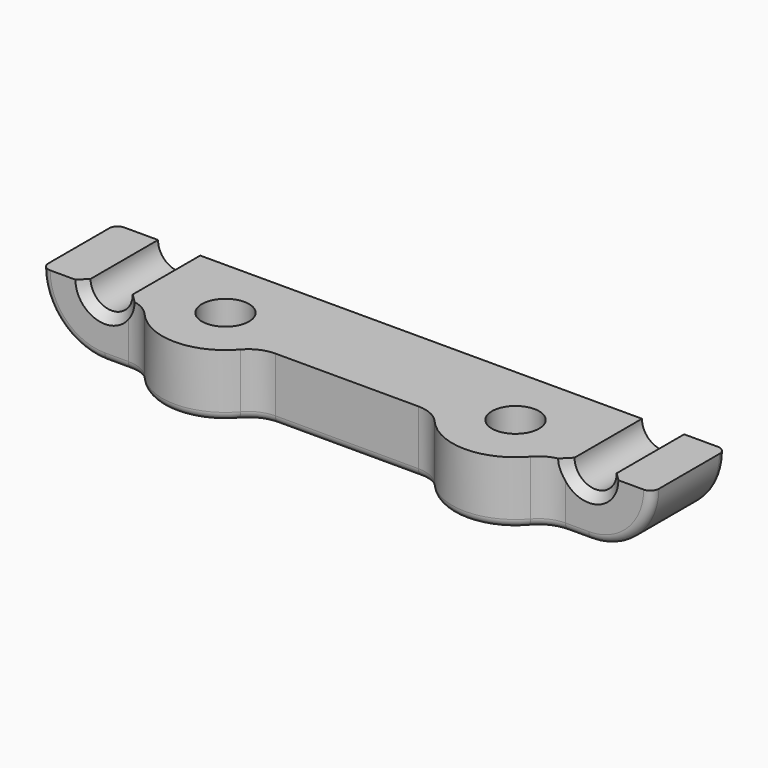
from build123d import *

# Parameters (mm, degrees)
F1_DEPTH = 13.97
F2_R     = 9.525
F3_DEPTH = 9.525
F4_R     = 3.556
F5_DEPTH = 9.526
F6_SIZE  = 1.27
F7_R     = 5.08
F8_R     = 1.27


with BuildPart() as f1:
    # F0 (on Front) → F1 (new body)
    with BuildSketch(Plane.XZ):
        with BuildLine():
            ThreePointArc((3.175, 0), (0, -3.175), (-3.175, 0))
            Line((-3.175, 0), (-9.525, 0))
            ThreePointArc((-9.525, 0), (-6.7351920908, -6.7351920908), (0, -9.525))
            ThreePointArc((0, -9.525), (6.7351920908, -6.7351920908), (9.525, 0))
            Line((9.525, 0), (3.175, 0))
        make_face()
        with BuildLine():
            Line((63.373, 0), (9.525, 0))
            ThreePointArc((9.525, 0), (6.7351920908, -6.7351920908), (0, -9.525))
            Line((0, -9.525), (72.898, -9.525))
            ThreePointArc((72.898, -9.525), (66.1628079092, -6.7351920908), (63.373, 0))
        make_face()
        with BuildLine():
            Line((69.723, 0), (63.373, 0))
            ThreePointArc((63.373, 0), (66.1628079092, -6.7351920908), (72.898, -9.525))
            ThreePointArc((72.898, -9.525), (79.6331920908, -6.7351920908), (82.423, 0))
            Line((82.423, 0), (76.073, 0))
            ThreePointArc((76.073, 0), (72.898, -3.175), (69.723, 0))
        make_face()
    extrude(amount=F1_DEPTH)

    # F2 (on face) → F3 (join, through all)
    with BuildSketch(Plane.XY):
        with Locations((14.605, -9.525)):
            Circle(F2_R)
        with Locations((58.293, -9.525)):
            Circle(F2_R)
    extrude(amount=-F3_DEPTH)

    # F4 (on face) → F5 (cut, through all)
    with BuildSketch(Plane.XY):
        with Locations((14.605, -9.525)):
            Circle(F4_R)
        with Locations((58.293, -9.525)):
            Circle(F4_R)
    extrude(amount=-F5_DEPTH, mode=Mode.SUBTRACT)

    # F6
    f6_edges = [f1.edges().sort_by_distance(p)[0] for p in [
        (0, -13.97, -3.175),
        (72.898, -13.97, -3.175),
    ]]
    chamfer(f6_edges, length=F6_SIZE)

    # F7
    f7_edges = [f1.edges().sort_by_distance(p)[0] for p in [
        (6.180773, -13.97, -4.7625),
        (23.029227, -13.97, -4.7625),
        (66.717227, -13.97, -4.7625),
        (49.868773, -13.97, -4.7625),
    ]]
    fillet(f7_edges, radius=F7_R)

    # F8
    f8_edges = [f1.edges().sort_by_distance(p)[0] for p in [
        (36.449, -13.97, -9.525),
        (36.449, 0, -9.525),
    ]]
    fillet(f8_edges, radius=F8_R)


solid = f1.part
